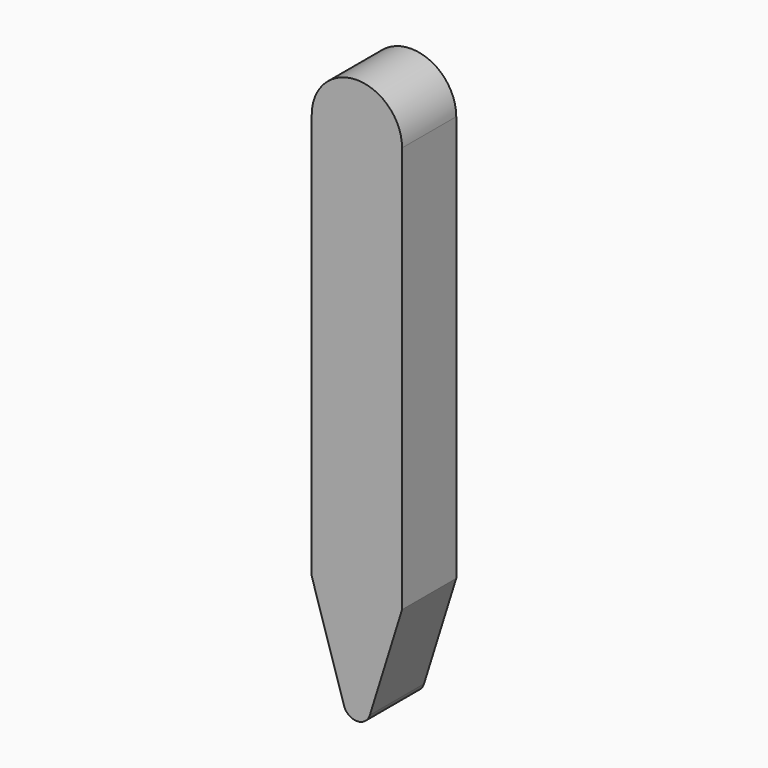
from build123d import *

# Parameters (mm, degrees)
F0_W     = 10.16
F0_H     = 45.72
F1_DEPTH = 7.62


with BuildPart() as f1:
    # F0 (on Front) → F1 (new body)
    with BuildSketch(Plane.XZ):
        with BuildLine():
            Line((1.454954, -34.489525), (5.08, -22.86))
            Line((5.08, -22.86), (-5.08, -22.86))
            Line((-5.08, -22.86), (-1.454954, -34.489525))
            ThreePointArc((-1.454954, -34.489525), (-0.229375, -32.52936), (1.524, -34.036))
            ThreePointArc((1.524, -34.036), (1.50664, -34.265375), (1.454954, -34.489525))
        make_face()
        Rectangle(F0_W, F0_H)
        with BuildLine():
            Line((-5.08, 22.86), (5.08, 22.86))
            ThreePointArc((5.08, 22.86), (0, 27.94), (-5.08, 22.86))
        make_face()
        with BuildLine():
            ThreePointArc((-1.454954, -34.489525), (0, -35.56), (1.454954, -34.489525))
            ThreePointArc((1.454954, -34.489525), (1.50664, -34.265375), (1.524, -34.036))
            ThreePointArc((1.524, -34.036), (-0.229375, -32.52936), (-1.454954, -34.489525))
        make_face()
    extrude(amount=F1_DEPTH)


solid = f1.part
